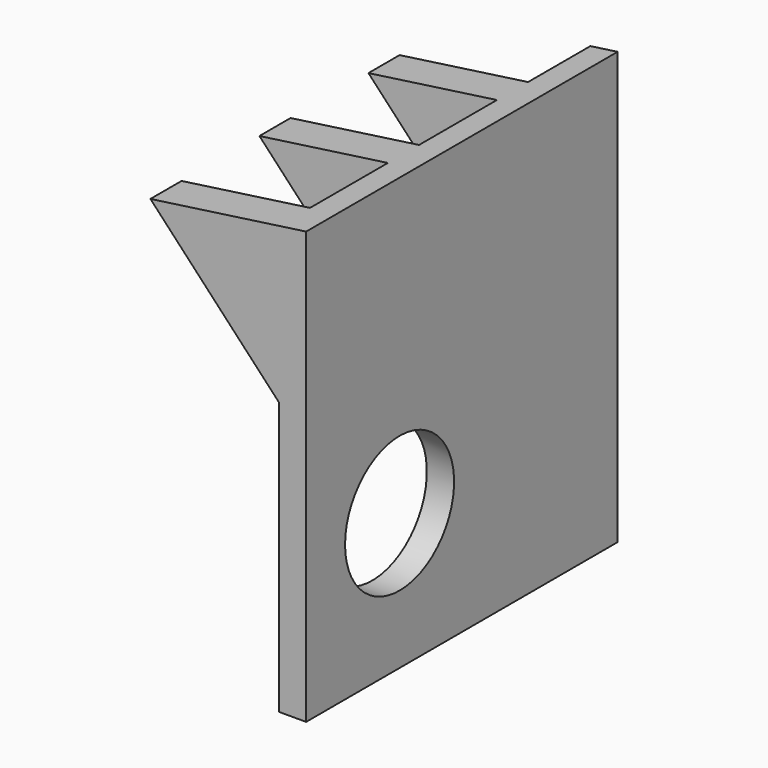
from build123d import *

# Parameters (mm, degrees)
F1_DEPTH = 100
F3_DEPTH = 100
F4_W     = 44.336
F4_H     = 25
F4_W_2   = 45.646268
F4_H_2   = 27.82878
F4_W_3   = 44.991
F5_DEPTH = 114
F7_DEPTH = 25


with BuildPart() as f1:
    # F0 (on Front) → F1 (new body)
    with BuildSketch(Plane.XZ):
        Polygon((0, 90), (0, 0), (148.54021, 0), (148.54021, 110.875965), align=None)
    extrude(amount=F1_DEPTH)

    # F2 (on face) → F3 (cut)
    with BuildSketch(Plane.XZ.offset(100)):
        Polygon((108.54021, 0), (141.54021, 0), (141.54021, 70), (108.54021, 105.254332), (0, 90), (0, 0), align=None)
    extrude(amount=-F3_DEPTH, mode=Mode.SUBTRACT)

    # F4 (on face) → F5 (cut)
    with BuildSketch(Plane(origin=(0, 0, 0), x_dir=(1, 0, 0), z_dir=(0, 0, -1))):
        with Locations((119.37221, 77.5)):
            Rectangle(F4_W, F4_H)
        with Locations((118.717076, 6.08561)):
            Rectangle(F4_W_2, F4_H_2)
        with Locations((119.04471, 42.5)):
            Rectangle(F4_W_3, F4_H)
    extrude(amount=-F5_DEPTH, mode=Mode.SUBTRACT)

    # F6 (on face) → F7 (cut)
    with BuildSketch(Plane(origin=(141.54021, 0, 0), x_dir=(0, -1, 0), z_dir=(-1, 0, 0))):
        with BuildLine():
            ThreePointArc((52.5, 35), (70, 17.5), (87.5, 35))
            Line((87.5, 35), (52.5, 35))
        make_face()
        with BuildLine():
            Line((52.5, 35), (87.5, 35))
            ThreePointArc((87.5, 35), (70, 52.5), (52.5, 35))
        make_face()
    extrude(amount=-F7_DEPTH, mode=Mode.SUBTRACT)


solid = f1.part
